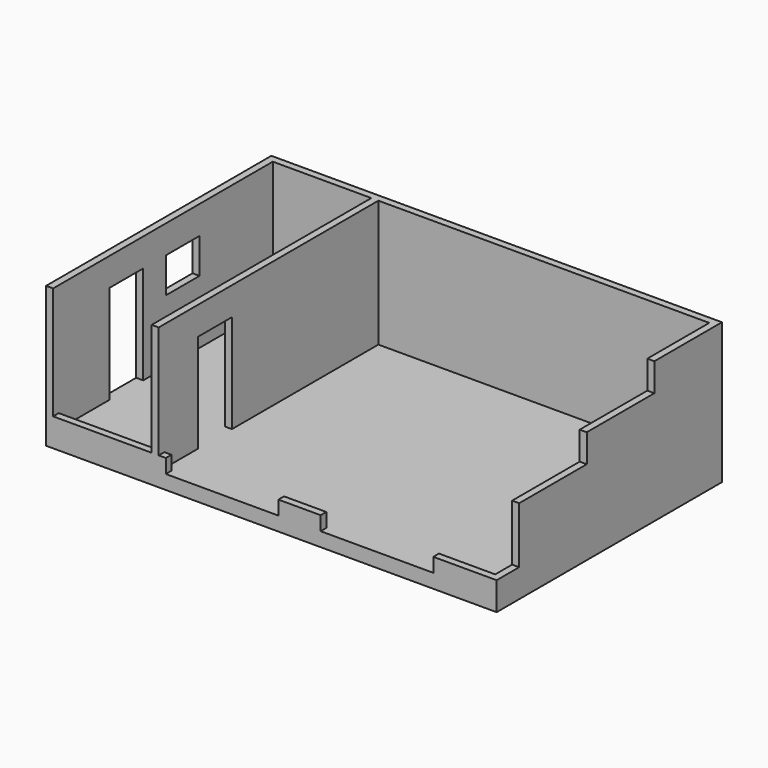
from build123d import *

# Parameters (mm, degrees)
F0_W      = 9753.6
F0_H      = 6096
F1_DEPTH  = 304.8
F2_W      = 914.4
F2_H      = 152.4
F3_DEPTH  = 304.8
F5_DEPTH  = 2438.4
F6_W      = 152.4
F6_H      = 1828.8
F7_DEPTH  = 1828.8
F8_W      = 152.4
F8_H      = 1828.8
F9_DEPTH  = 1219.2
F11_START = -152.4
F11_DEPTH = 152.4
F13_START = -2438.4
F12_W     = 914.4
F12_H     = 762
F13_DEPTH = 152.4


with BuildPart() as f1:
    # F0 (on Top) → F1 (new body)
    with BuildSketch(Plane.XY):
        with Locations((4876.8, 3048)):
            Rectangle(F0_W, F0_H)
    extrude(amount=F1_DEPTH)

    # F2 (on face) → F3 (join)
    with BuildSketch(Plane.XY.offset(304.8)):
        with Locations((5486.4, 76.2)):
            Rectangle(F2_W, F2_H)
        Polygon((8382, 152.4), (8382, 0), (9753.6, 0), (9753.6, 6096), (0, 6096), (0, 5943.6), (9601.2, 5943.6), (9601.2, 152.4), align=None)
        Polygon((0, 0), (2590.8, 0), (2590.8, 152.4), (152.4, 152.4), (152.4, 914.4), (0, 914.4), align=None)
    extrude(amount=F3_DEPTH)

    # F4 (on face) → F5 (join)
    with BuildSketch(Plane.XY.offset(609.6)):
        Polygon((0, 6096), (0, 5943.6), (9601.2, 5943.6), (9601.2, 4267.2), (9753.6, 4267.2), (9753.6, 6096), align=None)
    extrude(amount=F5_DEPTH)

    # F6 (on face) → F7 (join)
    with BuildSketch(Plane.XY.offset(609.6)):
        with Locations((9677.4, 3352.8)):
            Rectangle(F6_W, F6_H)
    extrude(amount=F7_DEPTH)

    # F8 (on face) → F9 (join)
    with BuildSketch(Plane.XY.offset(609.6)):
        with Locations((9677.4, 1524)):
            Rectangle(F8_W, F8_H)
    extrude(amount=F9_DEPTH)

    # F10 (on face) → F11 (join)
    with BuildSketch(Plane.YZ.offset(2590.8).offset(F11_START)):
        Polygon((0, 3048), (0, 609.6), (152.4, 609.6), (152.4, 304.8), (1066.8, 304.8), (1066.8, 2438.4), (1981.2, 2438.4), (1981.2, 304.8), (5943.6, 304.8), (5943.6, 3048), align=None)
    extrude(amount=-F11_DEPTH)

    # F12 (on face) → F13 (join)
    with BuildSketch(Plane.YZ.offset(2590.8).offset(F13_START)):
        Polygon((0, 609.6), (0, 304.8), (152.4, 304.8), (1524, 304.8), (1524, 2438.4), (2438.4, 2438.4), (2438.4, 304.8), (5943.6, 304.8), (5943.6, 3048), (0, 3048), align=None)
        with Locations((3505.2, 2057.4)):
            Rectangle(F12_W, F12_H, mode=Mode.SUBTRACT)
    extrude(amount=-F13_DEPTH)


solid = f1.part
